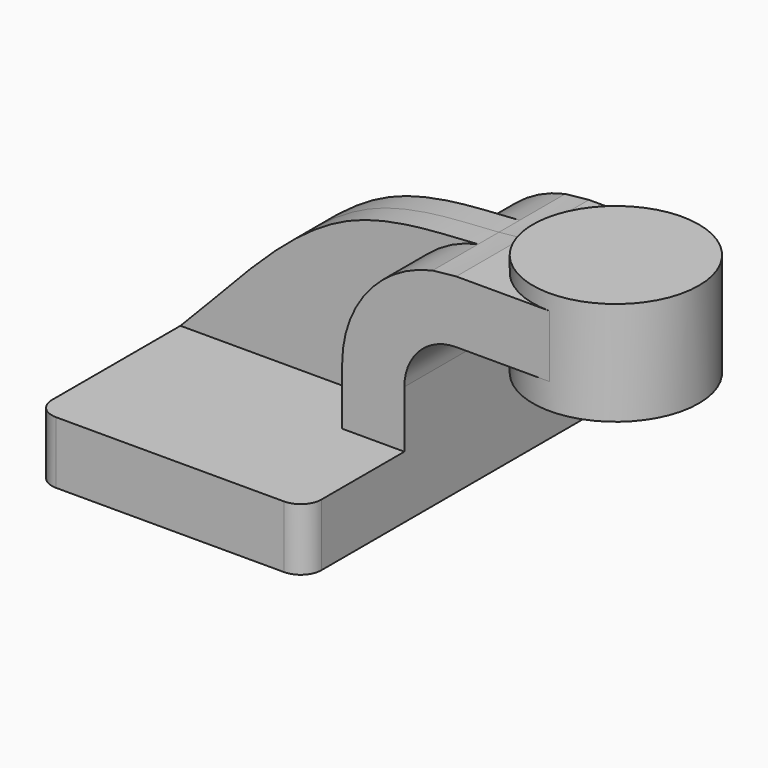
from build123d import *

# Parameters (mm, degrees)
F1_DEPTH = 63.5
F0_W     = 25.4
F0_H     = 19.05
F2_DEPTH = 25.4
F3_DEPTH = 7.9375
F5_R     = 6.35


with BuildPart() as f1:
    # F0 (on Front) → F1 (new body, symmetric)
    with BuildSketch(Plane.XZ):
        Polygon((22.225, 9.525), (-41.275, 9.525), (-41.275, -9.525), (41.275, -9.525), (41.275, 9.525), align=None)
    extrude(amount=F1_DEPTH, both=True)

    # F0 (on Front) → F2 (join, symmetric)
    with BuildSketch(Plane.XZ):
        with BuildLine():
            Line((22.225, 27.0002), (22.225, 9.525))
            Line((22.225, 9.525), (41.275, 9.525))
            Line((41.275, 9.525), (41.275, 27.0002))
            ThreePointArc((41.275, 27.0002), (45.9246798487, 38.2255201513), (57.15, 42.8752))
            Line((57.15, 42.8752), (60.325, 42.8752))
            Line((60.325, 42.8752), (60.325, 61.9252))
            Line((60.325, 61.9252), (57.15, 61.9252))
            add(Edge.make_bspline(
                [(49.9023052217, 61.1648973556), (52.4810313579, 61.358329757), (54.9137397508, 61.5896523225), (57.15, 61.9252)],
                knots=[0.9180865777, 0.9180865777, 0.9180865777, 0.9180865777, 1, 1, 1, 1], degree=3))
            ThreePointArc((49.9023052217, 61.1648973556), (30.0125593954, 48.9846249967), (22.225, 27.0002))
        make_face()
        with Locations((73.025, 52.4002)):
            Rectangle(F0_W, F0_H)
    extrude(amount=F2_DEPTH, both=True)

    # F0 (on Front) → F4 (revolve)
    with BuildSketch(Plane.XZ):
        Polygon((85.725, 66.675), (85.725, 61.9252), (85.725, 42.8752), (85.725, 34.925), (111.125, 34.925), (111.125, 66.675), align=None)
    revolve(axis=Axis((85.725, 0, 50.8), (0, 0, 1)))

    # F5
    f5_edges = [f1.edges().sort_by_distance(p)[0] for p in [
        (-41.275, -63.5, 0),
        (41.275, -63.5, 0),
        (41.275, 63.5, 0),
        (-41.275, 63.5, 0),
    ]]
    fillet(f5_edges, radius=F5_R)


with BuildPart() as f3:
    # F0 (on Front) → F3 (new body, symmetric)
    with BuildSketch(Plane.XZ):
        with BuildLine():
            add(Edge.make_bspline(
                [(-41.275, 9.525), (-24.0563050105, 26.8108303996), (1.9041946675, 60.0444502626), (38.2204106126, 60.2886286836), (49.9023052217, 61.1648973556)],
                knots=[0, 0, 0, 0, 0.54701035, 0.9180865777, 0.9180865777, 0.9180865777, 0.9180865777], degree=3))
            Line((-41.275, 9.525), (22.225, 9.525))
            Line((22.225, 9.525), (22.225, 27.0002))
            ThreePointArc((22.225, 27.0002), (30.0125593954, 48.9846249967), (49.9023052217, 61.1648973556))
        make_face()
    extrude(amount=F3_DEPTH, both=True)


solid = Compound([f1.part, f3.part])
